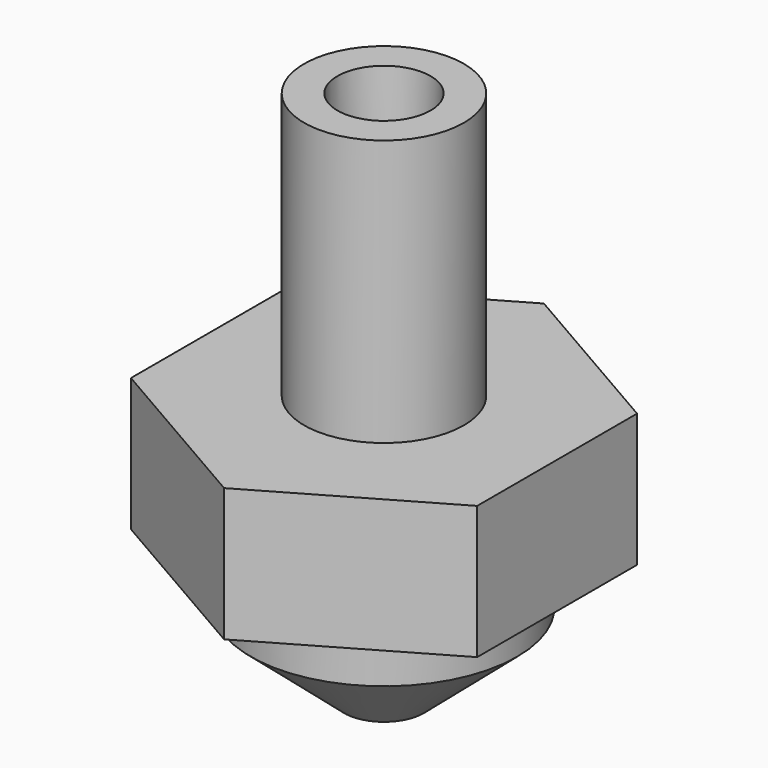
from build123d import *

# Parameters (mm, degrees)
PAD_DEPTH = 5


with BuildPart() as part:
    # Sketch → Revolution (revolve)
    with BuildSketch(Plane.XZ):
        Polygon((0, 20), (0, 0), (1.5, 0), (5, 3), (5, 10), (3, 10), (3, 20), align=None)
    revolve(axis=Axis((0, 0, 0), (0, 0, 1)))

    # Sketch001 (on Face4 of Revolution) → Pad (new body)
    with BuildSketch(Plane(origin=(0, 0, 10), x_dir=(-1, 0, 0), z_dir=(0, 0, 1))):
        Polygon((6.5, 3.752777), (0, 7.505553), (-6.5, 3.752777), (-6.5, -3.752777), (0, -7.505553), (6.5, -3.752777), align=None)
    extrude(amount=-PAD_DEPTH)

    # Sketch002 → Groove (revolve, cut)
    with BuildSketch(Plane.XZ):
        Polygon((1.75, 20), (0, 20), (0, 0), (1, 0), align=None)
    revolve(axis=Axis((0, 0, 0), (0, 0, 1)), mode=Mode.SUBTRACT)


solid = part.part
